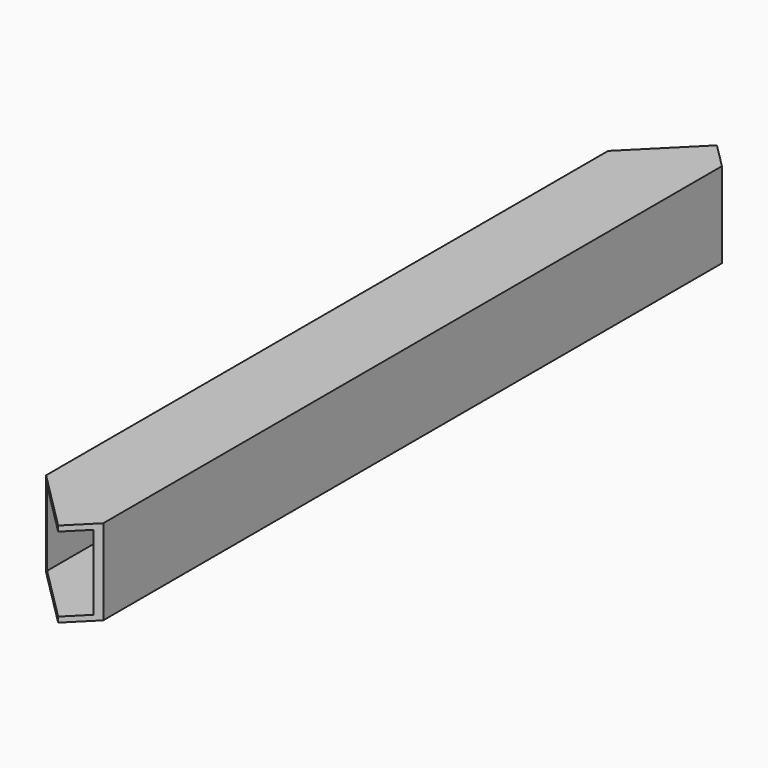
from build123d import *

# Parameters (mm, degrees)
F1_DEPTH = 25.4
F2_T     = -1.5875
F3_W     = 22.225
F3_H     = 22.225
F4_DEPTH = 262.563512
F6_DEPTH = 25.4


with BuildPart() as f1:
    # F0 (on Top) → F1 (new body)
    with BuildSketch(Plane.XY):
        Polygon((5.260512, 127.561512), (-12.7, 109.601), (-12.7, -135.001), (12.7, -135.001), (12.7, 120.122024), align=None)
    extrude(amount=F1_DEPTH)

    # F2
    f2_openings = [f1.faces().sort_by_distance(p)[0] for p in [
        (0, -135.001, 12.7),
    ]]
    offset(amount=F2_T, openings=f2_openings)

    # F3 (on face) → F4 (cut, through all)
    with BuildSketch(Plane.XZ.offset(135.001)):
        with Locations((0, 12.7)):
            Rectangle(F3_W, F3_H)
    extrude(amount=-F4_DEPTH, mode=Mode.SUBTRACT)

    # F5 (on face) → F6 (cut)
    with BuildSketch(Plane.XY.offset(25.4)):
        Polygon((5.260512, -117.040488), (-12.7, -135.001), (12.7, -135.001), (12.7, -109.601), align=None)
        Polygon((-12.7, -99.079976), (-12.7, -135.001), (5.260512, -117.040488), align=None)
    extrude(amount=-F6_DEPTH, mode=Mode.SUBTRACT)


solid = f1.part
